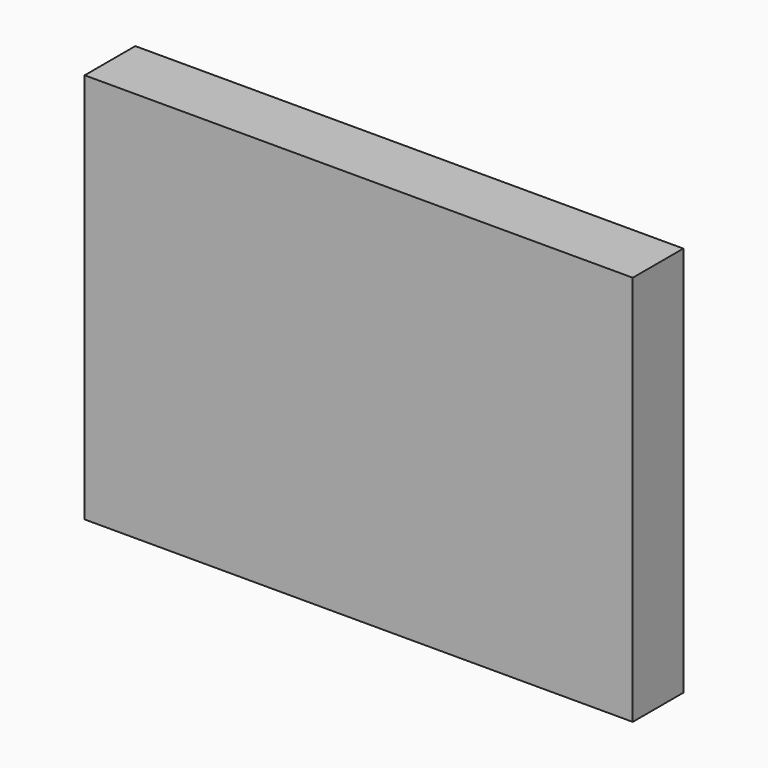
from build123d import *

# Parameters (mm, degrees)
F0_W     = 233.420394361
F0_H     = 166.5441393852
F1_DEPTH = 1.27
F2_DEPTH = 0.254
F3_DEPTH = 25.4
F4_W     = 69.0996274352
F4_H     = 38.4067334235
F5_DEPTH = 2.54


with BuildPart() as f1:
    # F0 (on Front) → F1 (new body)
    with BuildSketch(Plane.XZ):
        with Locations((1.6535334289, -5.4845437407)):
            Rectangle(F0_W, F0_H)
    extrude(amount=F1_DEPTH)

    # F2 (add): a face of the model
    f2_faces = [f1.faces().sort_by_distance(p)[0] for p in [
        (1.6535334289, -1.27, -5.4845437407),
    ]]
    extrude(f2_faces, amount=F2_DEPTH)

    # F3 (add): a face of the model
    f3_faces = [f1.faces().sort_by_distance(p)[0] for p in [
        (1.6535334289, -1.524, -5.4845437407),
    ]]
    extrude(f3_faces, amount=F3_DEPTH)

    # F4 (on Top) → F5 (join)
    with BuildSketch(Plane.XY):
        with Locations((-6.8230740726, 19.2033667117)):
            Rectangle(F4_W, F4_H)
    extrude(amount=F5_DEPTH)


solid = f1.part
